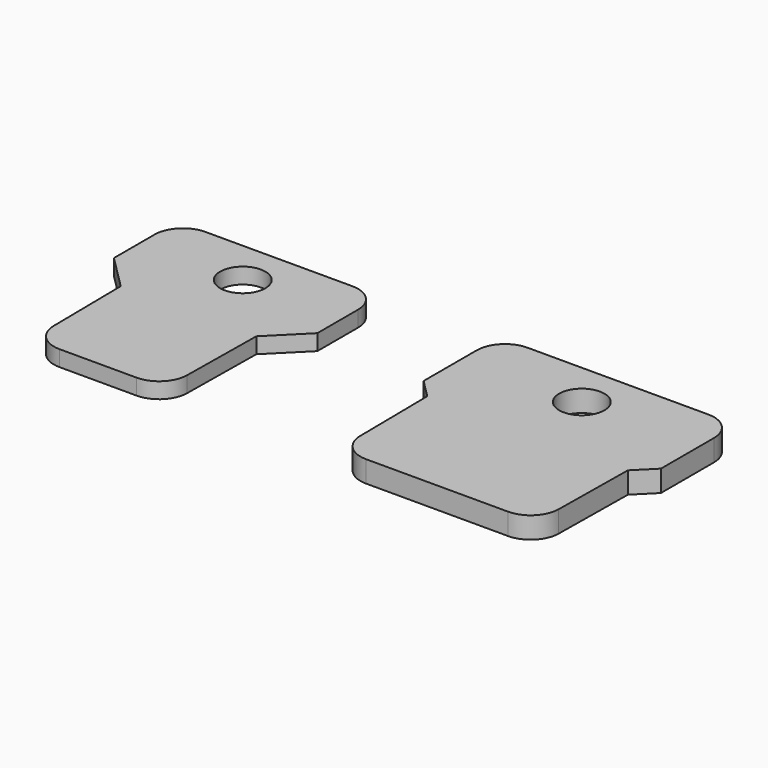
from build123d import *

# Parameters (mm, degrees)
F0_R     = 4
F1_DEPTH = 1.9
F2_R     = 4
F3_DEPTH = 1.4
F4_R     = 5
F4_2_R   = 5


with BuildPart() as f1:
    # F0 (on Top) → F1 (new body, symmetric)
    with BuildSketch(Plane.XY):
        Polygon((-17.75, 0), (-17.5, -20), (17.5, -20), (17.75, 0), (21, 3.25), (21, 20), (-21, 20), (-21, 3.25), align=None)
        with Locations((0, 12)):
            Circle(F0_R, mode=Mode.SUBTRACT)
    extrude(amount=F1_DEPTH, both=True)

    # F4
    f4_edges = [f1.edges().sort_by_distance(p)[0] for p in [
        (-21, 20, 0),
        (21, 20, 0),
        (17.5, -20, 0),
        (-17.5, -20, 0),
    ]]
    fillet(f4_edges, radius=F4_R)


with BuildPart() as f3:
    # F2 (on Top) → F3 (new body, symmetric)
    with BuildSketch(Plane.XY):
        Polygon((-72, 0), (-71.75, -20), (-48.25, -20), (-48, 0), (-42, 6), (-42, 20), (-78, 20), (-78, 6), align=None)
        with Locations((-60, 12)):
            Circle(F2_R, mode=Mode.SUBTRACT)
    extrude(amount=F3_DEPTH, both=True)

    # F4#2
    f4_2_edges = [f3.edges().sort_by_distance(p)[0] for p in [
        (-71.75, -20, 0),
        (-48.25, -20, 0),
        (-42, 20, 0),
        (-78, 20, 0),
    ]]
    fillet(f4_2_edges, radius=F4_2_R)


solid = Compound([f1.part, f3.part])
